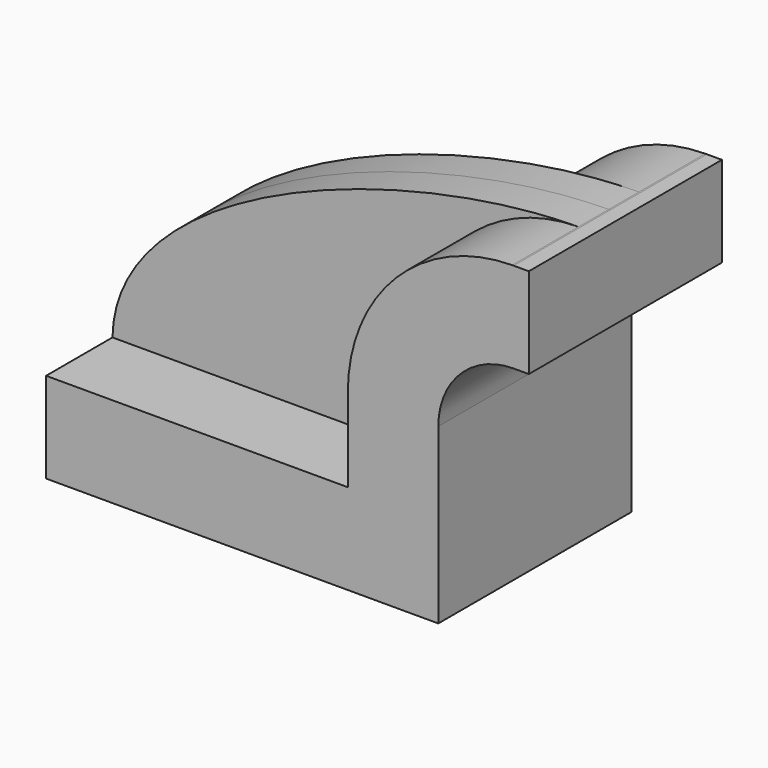
from build123d import *

# Parameters (mm, degrees)
F1_DEPTH = 25.4
F2_DEPTH = 7.9375


with BuildPart() as f1:
    # F0 (on Front) → F1 (new body, symmetric)
    with BuildSketch(Plane.XZ):
        Polygon((22.225, 9.525), (-41.275, 9.525), (-41.275, -9.525), (41.275, -9.525), (41.275, 9.525), align=None)
        with BuildLine():
            Line((22.225, 27.0002), (22.225, 9.525))
            Line((22.225, 9.525), (41.275, 9.525))
            Line((41.275, 9.525), (41.275, 27.0002))
            ThreePointArc((41.275, 27.0002), (45.92468, 38.22552), (57.15, 42.8752))
            Line((57.15, 42.8752), (60.325, 42.8752))
            Line((60.325, 42.8752), (60.325, 61.9252))
            Line((60.325, 61.9252), (57.15, 61.9252))
            add(Edge.make_bspline(
                [(56.829578, 61.92373), (56.936552, 61.924385), (57.04336, 61.924875), (57.15, 61.9252)],
                knots=[111.193178, 111.193178, 111.193178, 111.193178, 111.504536, 111.504536, 111.504536, 111.504536], degree=3))
            ThreePointArc((56.829578, 61.92373), (32.341268, 51.582357), (22.225, 27.0002))
        make_face()
    extrude(amount=F1_DEPTH, both=True)

    # F0 (on Front) → F2 (join, symmetric)
    with BuildSketch(Plane.XZ):
        with BuildLine():
            add(Edge.make_bspline(
                [(-41.275, 9.525), (-40.764818, 40.487092), (18.626642, 61.690006), (56.829578, 61.92373)],
                knots=[0, 0, 0, 0, 111.193178, 111.193178, 111.193178, 111.193178], degree=3))
            Line((-41.275, 9.525), (22.225, 9.525))
            Line((22.225, 9.525), (22.225, 27.0002))
            ThreePointArc((22.225, 27.0002), (32.341268, 51.582357), (56.829578, 61.92373))
        make_face()
    extrude(amount=F2_DEPTH, both=True)


solid = f1.part
